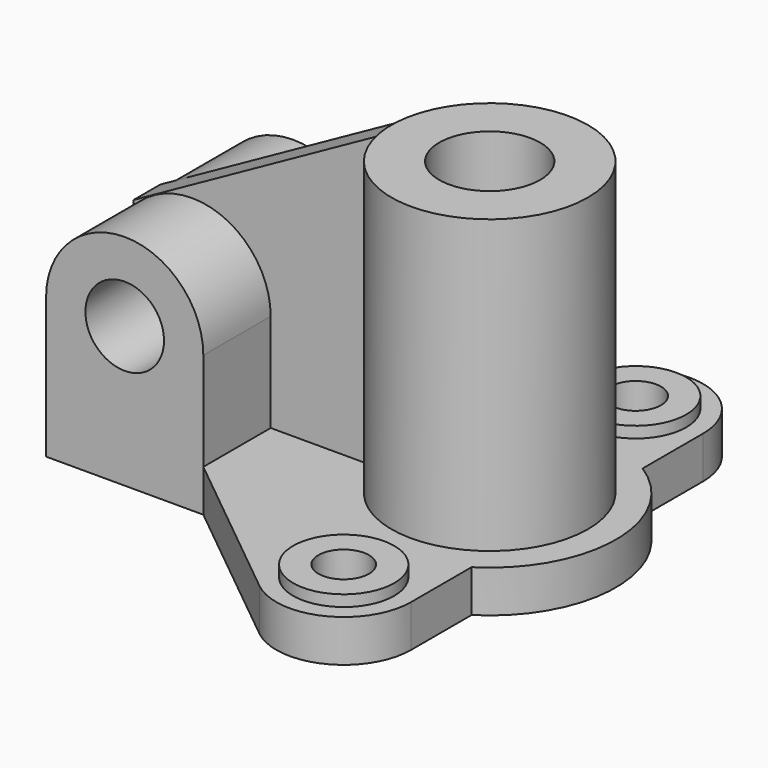
from build123d import *

# Parameters (mm, degrees)
F1_DEPTH  = 38.1
F0_W      = 142.24
F0_H      = 190.5
F2_DEPTH  = 127
F4_DEPTH  = 190.5
F5_R      = 35.56
F6_DEPTH  = 190.5
F7_R      = 45.72
F8_DEPTH  = 10.16
F9_DEPTH  = 10.16
F10_R     = 22.86
F11_DEPTH = 48.26
F12_R     = 22.86
F13_DEPTH = 48.26
F14_R     = 88.9
F15_DEPTH = 264.16
F16_R     = 45.72
F17_DEPTH = 302.26
F19_DEPTH = 30.48


with BuildPart() as f1:
    # F0 (on Top) → F1 (new body)
    with BuildSketch(Plane.XY):
        with BuildLine():
            Line((90.7176998631, 201.0186984875), (-53.7598490381, 83.8255537926))
            Line((-53.7598490381, 83.8255537926), (-53.7598490381, -106.6744462074))
            Line((-53.7598490381, -106.6744462074), (90.7176998631, -223.8675909024))
            ThreePointArc((90.7176998631, -223.8675909024), (155.3414036114, -231.5568685554), (190.0801509619, -176.5244462074))
            Line((190.0801509619, -176.5244462074), (190.0801509619, -108.1114070656))
            ThreePointArc((190.0801509619, -108.1114070656), (243.4201509619, -11.4244462074), (190.0801509619, 85.2625146508))
            Line((190.0801509619, 85.2625146508), (190.0801509619, 153.6755537926))
            ThreePointArc((190.0801509619, 153.6755537926), (155.3414036114, 208.7079761406), (90.7176998631, 201.0186984875))
        make_face()
    extrude(amount=F1_DEPTH)

    # F0 (on Top) → F2 (join)
    with BuildSketch(Plane.XY):
        with Locations((-124.8798490381, -11.4244462074)):
            Rectangle(F0_W, F0_H)
    extrude(amount=F2_DEPTH)

    # F3 (on face) → F4 (join)
    with BuildSketch(Plane.XZ.offset(106.6744462074)):
        with BuildLine():
            Line((-195.9998490381, 127), (-53.7598490381, 127))
            ThreePointArc((-53.7598490381, 127), (-124.8798490381, 198.12), (-195.9998490381, 127))
        make_face()
    extrude(amount=-F4_DEPTH)

    # F5 (on face) → F6 (cut)
    with BuildSketch(Plane.XZ.offset(106.6744462074)):
        with Locations((-124.8798490381, 127)):
            Circle(F5_R)
    extrude(amount=-F6_DEPTH, mode=Mode.SUBTRACT)

    # F7 (on face) → F8 (join)
    with BuildSketch(Plane.XY.offset(38.1)):
        with Locations((129.1201509619, -176.5244462074)):
            Circle(F7_R)
    extrude(amount=F8_DEPTH)

    # F7 (on face) → F9 (join)
    with BuildSketch(Plane.XY.offset(38.1)):
        with Locations((129.1201509619, 153.6755537926)):
            Circle(F7_R)
        with Locations((129.1201509619, -176.5244462074)):
            Circle(F7_R)
    extrude(amount=F9_DEPTH)

    # F10 (on face) → F11 (cut)
    with BuildSketch(Plane.XY.offset(48.26)):
        with Locations((129.1201509619, 153.6755537926)):
            Circle(F10_R)
    extrude(amount=-F11_DEPTH, mode=Mode.SUBTRACT)

    # F12 (on face) → F13 (cut)
    with BuildSketch(Plane.XY.offset(48.26)):
        with Locations((129.1201509619, -176.5244462074)):
            Circle(F12_R)
    extrude(amount=-F13_DEPTH, mode=Mode.SUBTRACT)

    # F14 (on face) → F15 (join)
    with BuildSketch(Plane.XY.offset(38.1)):
        with Locations((129.1201509619, -11.4244462074)):
            Circle(F14_R)
    extrude(amount=F15_DEPTH)

    # F16 (on face) → F17 (cut)
    with BuildSketch(Plane.XY.offset(302.26)):
        with Locations((129.1201509619, -11.4244462074)):
            Circle(F16_R)
    extrude(amount=-F17_DEPTH, mode=Mode.SUBTRACT)

    # F18 (on Front) → F19 (join)
    with BuildSketch(Plane.XZ):
        Polygon((43.5996614397, 302.26), (-178.0664920807, 179.1791468859), (-178.0664920807, 0), (43.5996614397, 0), align=None)
    extrude(amount=F19_DEPTH)


solid = f1.part
